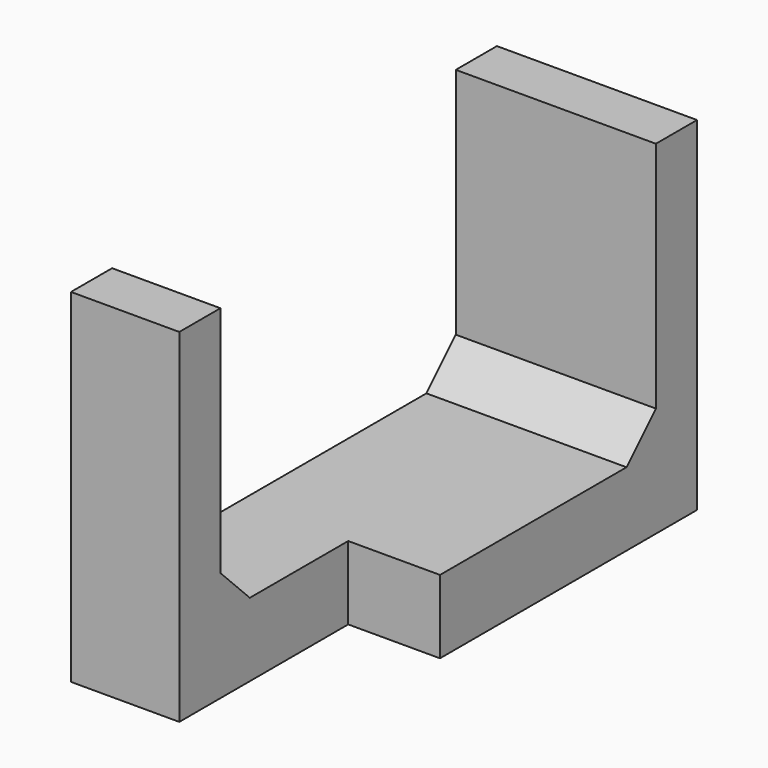
from build123d import *

# Parameters (mm, degrees)
SKETCH026_W     = 10.9
SKETCH026_H     = 29
PAD009_DEPTH    = 4
SKETCH027_W     = 9
SKETCH027_H     = 14
POCKET015_DEPTH = 4.001
SKETCH028_W     = 5.9
SKETCH028_H     = 2.8
SKETCH028_W_2   = 10.9
PAD010_DEPTH    = 14.7
CHAMFER001_SIZE = 2
SKETCH033_R     = 0.6
POCKET016_DEPTH = 4


with BuildPart() as part:
    # Sketch026 (on DatumPlane) → Pad009 (new body)
    with BuildSketch(Plane.XY.offset(7)):
        with Locations((-19.95, 0)):
            Rectangle(SKETCH026_W, SKETCH026_H)
    extrude(amount=PAD009_DEPTH)

    # Sketch027 (on DatumPlane) → Pocket015 (cut, through all)
    with BuildSketch(Plane.XY.offset(11)):
        with Locations((-15, -10)):
            Rectangle(SKETCH027_W, SKETCH027_H)
    extrude(amount=-POCKET015_DEPTH, mode=Mode.SUBTRACT)

    # Sketch028 (on DatumPlane) → Pad010 (join)
    with BuildSketch(Plane.XY.offset(11)):
        with Locations((-22.45, -13.1)):
            Rectangle(SKETCH028_W, SKETCH028_H)
        with Locations((-19.95, 13.1)):
            Rectangle(SKETCH028_W_2, SKETCH028_H)
    extrude(amount=PAD010_DEPTH)

    # Chamfer001
    chamfer001_edges = [part.edges().sort_by_distance(p)[0] for p in [
        (-19.95, 11.7, 11),
        (-22.45, -11.7, 11),
    ]]
    chamfer(chamfer001_edges, length=CHAMFER001_SIZE)

    # Sketch033 (on DatumPlane) → Pocket016 (cut)
    with BuildSketch(Plane.XZ.offset(-14.5)):
        with Locations((-19.5, 10.5)):
            Circle(SKETCH033_R)
    extrude(amount=POCKET016_DEPTH, mode=Mode.SUBTRACT)


solid = part.part
